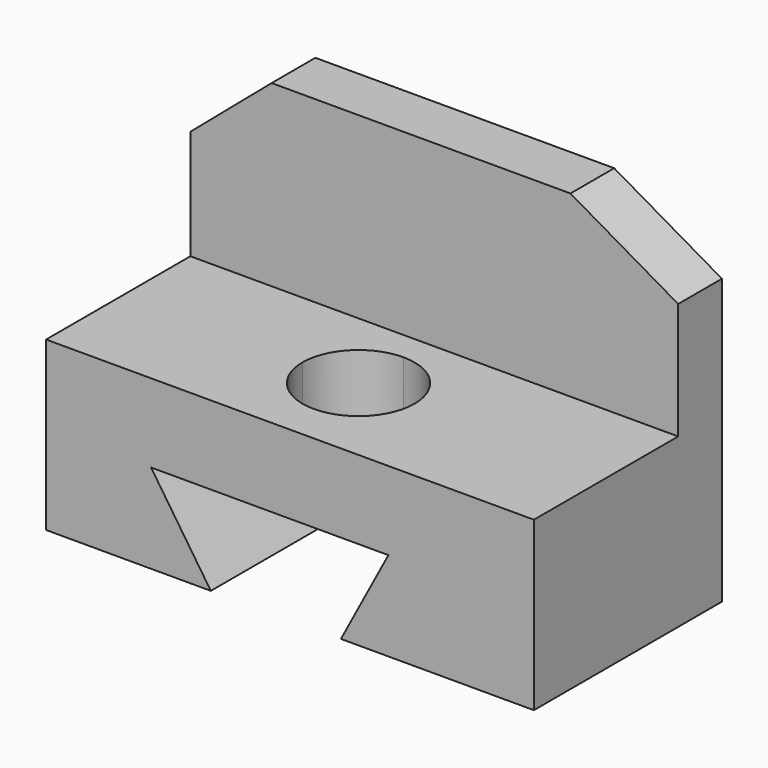
from build123d import *

# Parameters (mm, degrees)
F0_W      = 110.8218282461
F0_H      = 53.3959735185
F1_DEPTH  = 38.1
F2_W      = 110.8218282461
F2_H      = 12.4254778493
F3_DEPTH  = 40.64
F5_DEPTH  = 25.4
F7_DEPTH  = 25.4
F8_DEPTH  = 25.4
F10_DEPTH = 25.4


with BuildPart() as f1:
    # F0 (on Top) → F1 (new body)
    with BuildSketch(Plane.XY):
        with Locations((1.6791187227, -12.1736107394)):
            Rectangle(F0_W, F0_H)
    extrude(amount=F1_DEPTH)

    # F2 (on face) → F3 (join)
    with BuildSketch(Plane.XY.offset(38.1)):
        with Locations((1.6791187227, 8.3116370952)):
            Rectangle(F2_W, F2_H)
    extrude(amount=F3_DEPTH)

    # F4 (on face) → F5 (cut)
    with BuildSketch(Plane.XZ.offset(-2.0988981705)):
        Polygon((-53.7317954004, 62.9949569702), (-35.2727063, 78.74), (-53.7317954004, 78.74), align=None)
        Polygon((57.0900328457, 78.74), (32.6191671193, 78.74), (57.0900328457, 64.5924061537), align=None)
    extrude(amount=-F5_DEPTH, mode=Mode.SUBTRACT)

    # F6 (on face) → F7 (cut)
    with BuildSketch(Plane.XZ.offset(38.8715974987)):
        Polygon((-29.8812910914, 20.2630087733), (-16.3029171526, 0), (13.250015676, 0), (24.0328423679, 20.2630087733), align=None)
    extrude(amount=-F7_DEPTH, mode=Mode.SUBTRACT)

    # F8 (cut): a face of the model
    f8_faces = [f1.faces().sort_by_distance(p)[0] for p in [
        (-2.2933313213, -13.4715974987, 11.1171850151),
    ]]
    extrude(f8_faces, amount=-F8_DEPTH, mode=Mode.SUBTRACT)

    # F9 (on face) → F10 (cut)
    with BuildSketch(Plane.XY.offset(38.1)):
        with BuildLine():
            Line((-12.7204942497, -17.3120461404), (0, -17.3120461404))
            Line((0, -17.3120461404), (0, -4.5915518908))
            ThreePointArc((0, -4.5915518908), (-8.994747744, -8.3172983965), (-12.7204942497, -17.3120461404))
        make_face()
        with BuildLine():
            Line((0, -4.5915518908), (0, -17.3120461404))
            Line((0, -17.3120461404), (12.7204942497, -17.3120461404))
            ThreePointArc((12.7204942497, -17.3120461404), (8.994747744, -8.3172983965), (0, -4.5915518908))
        make_face()
        with BuildLine():
            Line((0, -30.0325403901), (0, -17.3120461404))
            Line((0, -17.3120461404), (-12.7204942497, -17.3120461404))
            ThreePointArc((-12.7204942497, -17.3120461404), (-8.994747744, -26.3067938844), (0, -30.0325403901))
        make_face()
        with BuildLine():
            Line((12.7204942497, -17.3120461404), (0, -17.3120461404))
            Line((0, -17.3120461404), (0, -30.0325403901))
            ThreePointArc((0, -30.0325403901), (8.994747744, -26.3067938844), (12.7204942497, -17.3120461404))
        make_face()
    extrude(amount=-F10_DEPTH, mode=Mode.SUBTRACT)


solid = f1.part
